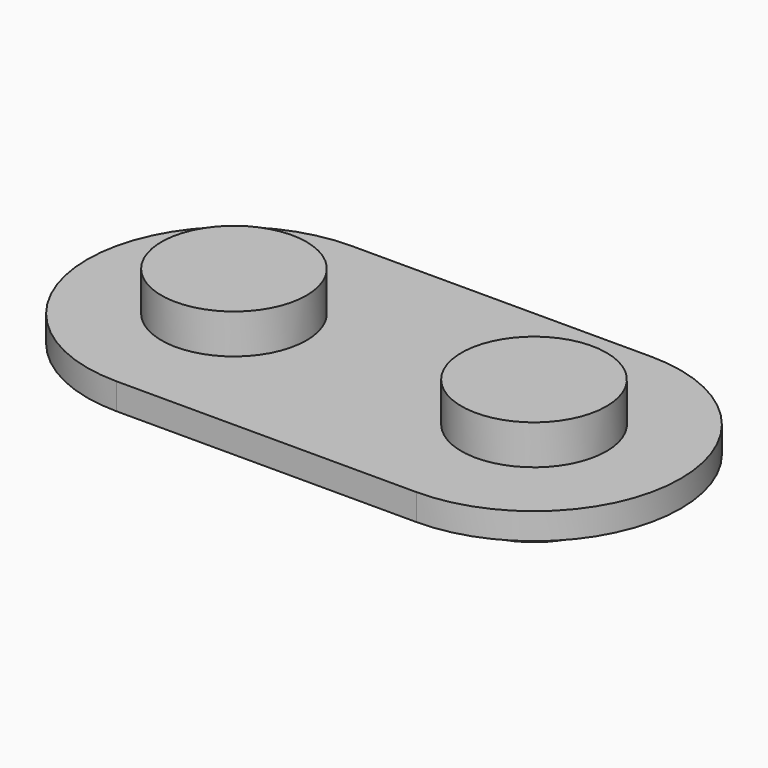
from build123d import *

# Parameters (mm, degrees)
F0_R     = 1.016
F1_DEPTH = 1.016
F2_R     = 2.794
F3_DEPTH = 1.524
F4_R     = 2.794
F5_DEPTH = 1.524


with BuildPart() as f1:
    # F0 (on Top) → F1 (new body)
    with BuildSketch(Plane.XY):
        with BuildLine():
            Line((-7.064182, -6.594037), (4.492818, -6.594037))
            ThreePointArc((4.492818, -6.594037), (10.144311, -0.951402), (4.510547, 4.708935))
            ThreePointArc((4.510547, 4.708935), (4.492832, 4.708963), (4.475116, 4.708935))
            Line((4.475116, 4.708935), (-7.064182, 4.708963))
            ThreePointArc((-7.064182, 4.708963), (-12.715682, -0.942537), (-7.064182, -6.594037))
        make_face()
        with Locations((-7.064182, -0.942537)):
            Circle(F0_R, mode=Mode.SUBTRACT)
        with Locations((4.492818, -0.942537)):
            Circle(F0_R, mode=Mode.SUBTRACT)
    extrude(amount=F1_DEPTH)

    # F2 (on face) → F3 (join)
    with BuildSketch(Plane.XY.offset(1.016)):
        with Locations((4.492818, -0.942537)):
            Circle(F2_R)
        with Locations((-7.064182, -0.942537)):
            Circle(F2_R)
    extrude(amount=F3_DEPTH)

    # F4 (on face) → F5 (join)
    with BuildSketch(Plane(origin=(0, 0, 0), x_dir=(1, 0, 0), z_dir=(0, 0, -1))):
        with Locations((4.492818, 0.942537)):
            Circle(F4_R)
        with Locations((-7.064182, 0.942537)):
            Circle(F4_R)
    extrude(amount=F5_DEPTH)


solid = f1.part
